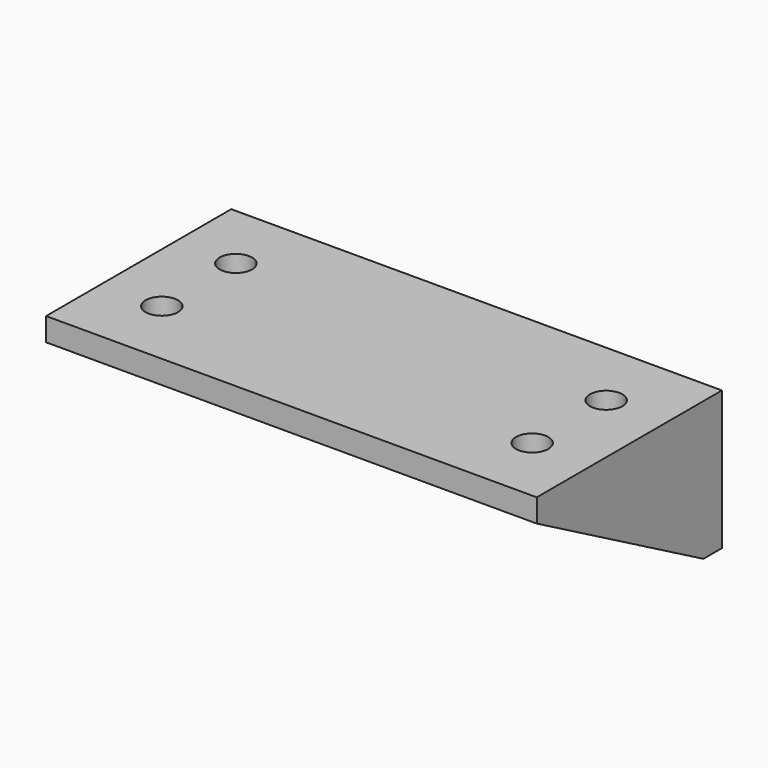
from build123d import *

# Parameters (mm, degrees)
F1_DEPTH = 100
F2_R     = 3.5
F3_DEPTH = 30.001
F4_R     = 8
F5_DEPTH = 50.001
F7_DEPTH = 3
F9_DEPTH = 3


with BuildPart() as f1:
    # F0 (on Right) → F1 (new body)
    with BuildSketch(Plane.YZ):
        Polygon((0, 0), (-50, 0), (-50, -5), (-5, -5), (-5, -30), (0, -30), align=None)
    extrude(amount=F1_DEPTH)

    # F2 (on face) → F3 (cut, through all)
    with BuildSketch(Plane.XY):
        with Locations((10, -35)):
            Circle(F2_R)
        with Locations((10, -15)):
            Circle(F2_R)
        with Locations((90, -35)):
            Circle(F2_R)
        with Locations((90, -15)):
            Circle(F2_R)
    extrude(amount=-F3_DEPTH, mode=Mode.SUBTRACT)

    # F4 (on face) → F5 (cut, through all)
    with BuildSketch(Plane(origin=(0, 0, 0), x_dir=(-1, 0, 0), z_dir=(0, 1, 0))):
        with Locations((-50, -15)):
            Circle(F4_R)
    extrude(amount=-F5_DEPTH, mode=Mode.SUBTRACT)

    # F6 (on face) → F7 (join)
    with BuildSketch(Plane.YZ.offset(100)):
        Polygon((0, 0), (-50, 0), (-50, -5), (-5, -30), (0, -30), align=None)
    extrude(amount=F7_DEPTH)

    # F8 (on face) → F9 (join)
    with BuildSketch(Plane(origin=(0, 0, 0), x_dir=(0, -1, 0), z_dir=(-1, 0, 0))):
        Polygon((50, -5), (50, 0), (0, 0), (0, -30), (5, -30), align=None)
    extrude(amount=F9_DEPTH)


solid = f1.part
